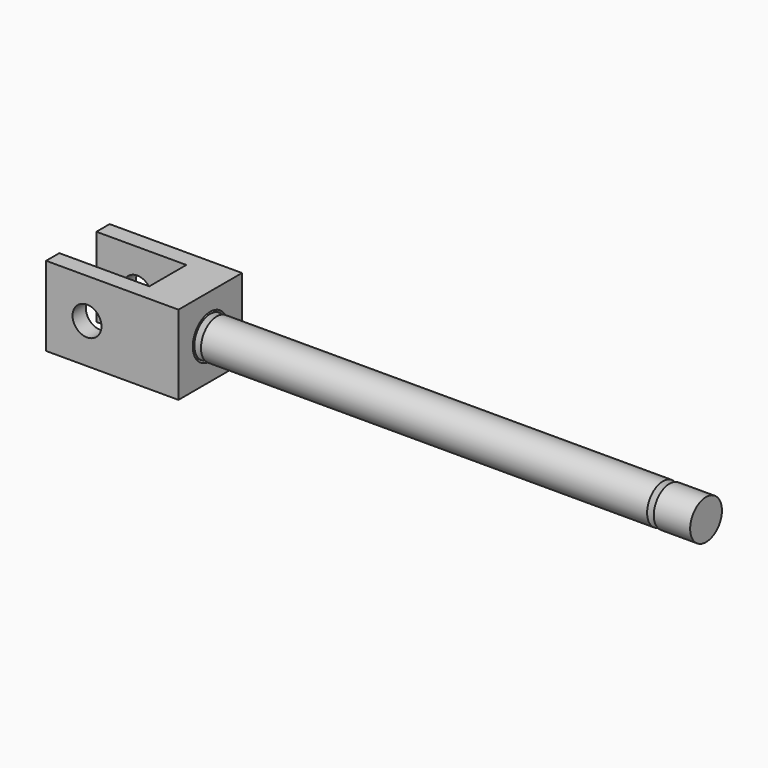
from build123d import *

# Parameters (mm, degrees)
F2_W     = 10
F2_H     = 6
F3_DEPTH = 3
F5_D     = 3.3
F5_DEPTH = 4
F5_TIP   = 0.9914200214
F6_R     = 1.092
F7_DEPTH = 6.001
F9_DEPTH = 6.001


with BuildPart() as f1:
    # F0 (on Front) → F1 (revolve)
    with BuildSketch(Plane.XZ):
        Polygon((-37.45, 1.5), (-40.2, 1.5), (-40.2, 0), (0, 0), (0, 1.5), (-2.75, 1.5), (-3, 1), (-3.25, 1.5), (-36.95, 1.5), (-37.2, 1), align=None)
    revolve(axis=Axis((-20.1, 0, 0), (1, 0, 0)))


with BuildPart() as f3:
    # F2 (on Top) → F3 (new body, symmetric)
    with BuildSketch(Plane.XY):
        with Locations((-42.45, 0)):
            Rectangle(F2_W, F2_H)
    extrude(amount=F3_DEPTH, both=True)

    # F5
    with Locations(Plane.YZ.offset(-37.45)):
        with Locations((0, 0)):
            Hole(F5_D / 2, depth=F5_DEPTH)
            with Locations((0, 0, -(F5_DEPTH + F5_TIP / 2))):  # 118° drill point
                Cone(0, F5_D / 2, F5_TIP, mode=Mode.SUBTRACT)

    # F6 (on face) → F7 (cut, through all)
    with BuildSketch(Plane.XZ.offset(3)):
        with Locations((-44.358, 0)):
            Circle(F6_R)
    extrude(amount=-F7_DEPTH, mode=Mode.SUBTRACT)

    # F8 (on face) → F9 (cut, through all)
    with BuildSketch(Plane.XY.offset(3)):
        Polygon((-40.6556032121, 1.75), (-47.45, 1.75), (-47.45, 0), (-47.45, -1.75), (-40.6556032121, -1.75), align=None)
    extrude(amount=-F9_DEPTH, mode=Mode.SUBTRACT)


solid = Compound([f1.part, f3.part])
